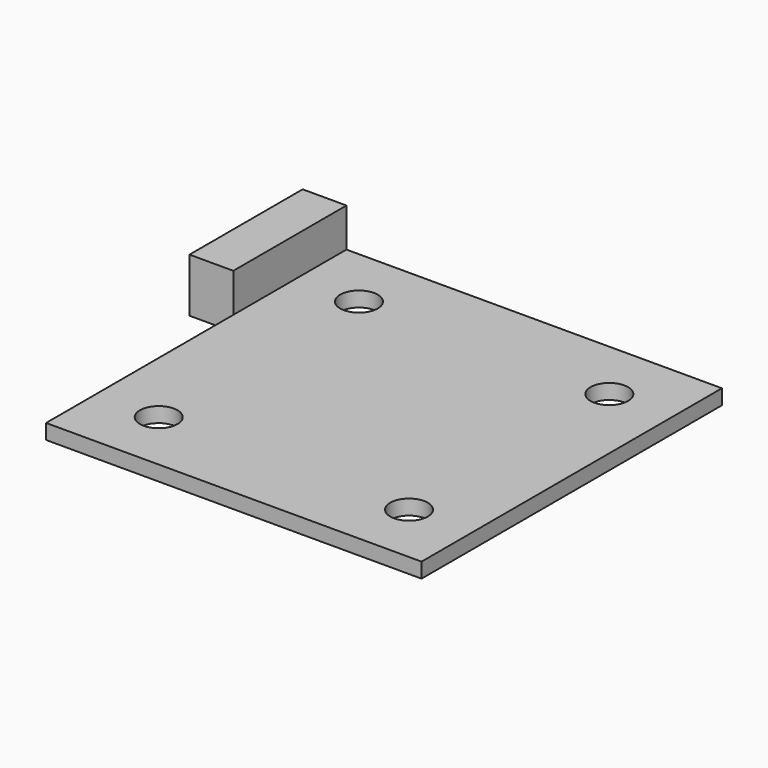
from build123d import *

# Parameters (mm, degrees)
F0_W     = 3.5
F0_H     = 11.3
F0_R     = 1.5
F1_DEPTH = 1.2
F2_DEPTH = 3.1


with BuildPart() as f1:
    # F0 (on Top) → F1 (new body)
    with BuildSketch(Plane.XY):
        with Locations((-16.75, 9.35)):
            Rectangle(F0_W, F0_H)
        Polygon((15, 15), (-15, 15), (-15, 3.7), (-15, -15), (15, -15), align=None)
        with Locations((-10, -10)):
            Circle(F0_R, mode=Mode.SUBTRACT)
        with Locations((10, -10)):
            Circle(F0_R, mode=Mode.SUBTRACT)
        with Locations((-10, 10)):
            Circle(F0_R, mode=Mode.SUBTRACT)
        with Locations((10, 10)):
            Circle(F0_R, mode=Mode.SUBTRACT)
    extrude(amount=-F1_DEPTH)

    # F0 (on Top) → F2 (join)
    with BuildSketch(Plane.XY):
        with Locations((-16.75, 9.35)):
            Rectangle(F0_W, F0_H)
    extrude(amount=F2_DEPTH)


solid = f1.part
